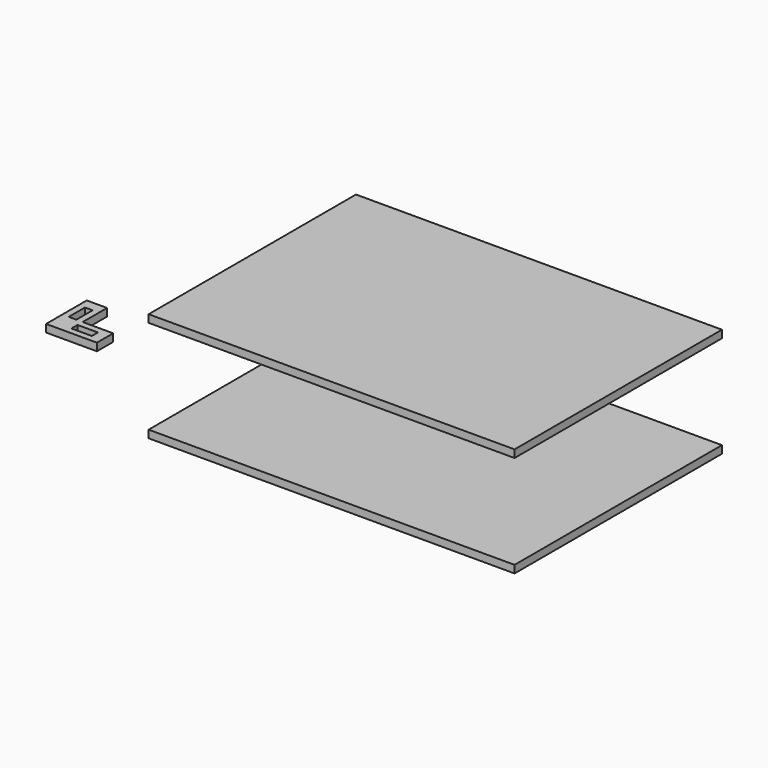
from build123d import *

# Parameters (mm, degrees)
F0_W     = 914.4
F0_H     = 647.7
F1_DEPTH = 19.05
F3_W     = 50.8
F3_H     = 19.05
F3_W_2   = 19.05
F3_H_2   = 50.8
F4_DEPTH = 19.05


with BuildPart() as f1:
    # F0 (on Top) → F1 (new body)
    with BuildSketch(Plane.XY):
        with Locations((457.2, 323.85)):
            Rectangle(F0_W, F0_H)
    extrude(amount=-F1_DEPTH)


with BuildPart() as f2_1:
    # F2: copy of F1
    add(f1.part.moved(Location((0, 0, 254))))


with BuildPart() as f4:
    # F3 (on face) → F4 (new body)
    with BuildSketch(Plane.XY):
        Polygon((-384.613063, 350.992288), (-435.413063, 350.992288), (-435.413063, 223.992288), (-308.413063, 223.992288), (-308.413063, 274.792288), (-384.613063, 274.792288), align=None)
        with Locations((-359.213063, 249.392288)):
            Rectangle(F3_W, F3_H, mode=Mode.SUBTRACT)
        with Locations((-409.987663, 300.192288)):
            Rectangle(F3_W_2, F3_H_2, mode=Mode.SUBTRACT)
    extrude(amount=-F4_DEPTH)


solid = Compound([f1.part, f2_1.part, f4.part])
